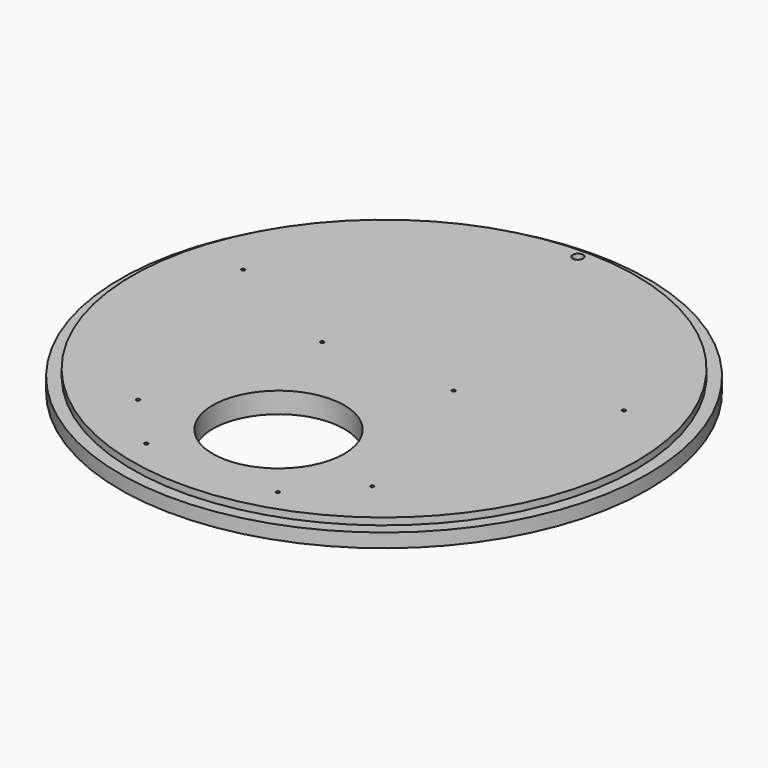
from build123d import *

# Parameters (mm, degrees)
SKETCH058_R     = 152.5
PAD_DEPTH       = 8
SKETCH059_R     = 145.5
PAD017_DEPTH    = 4
SKETCH003_R     = 38
POCKET_DEPTH    = 12.001
SKETCH054_R     = 3
SKETCH054_R_2   = 1
POCKET019_DEPTH = 6


with BuildPart() as part:
    # Sketch058 → Pad (new body)
    with BuildSketch(Plane.XY):
        Circle(SKETCH058_R)
    extrude(amount=PAD_DEPTH)

    # Sketch059 (on DatumPlane) → Pad017 (join)
    with BuildSketch(Plane.XY.offset(8)):
        Circle(SKETCH059_R)
    extrude(amount=PAD017_DEPTH)

    # Sketch003 → Pocket (cut, through all)
    with BuildSketch(Plane.XY):
        with Locations((0, -76.25)):
            Circle(SKETCH003_R)
    extrude(amount=POCKET_DEPTH, mode=Mode.SUBTRACT)

    # Sketch054 → Pocket019 (cut)
    with BuildSketch(Plane.XY.offset(12)):
        with Locations((0, 140)):
            Circle(SKETCH054_R)
        with Locations((109.993235, 35.738968)):
            Circle(SKETCH054_R_2)
        with Locations((67.651258, -93.113968)):
            Circle(SKETCH054_R_2)
        with Locations((-67.651258, -93.113968)):
            Circle(SKETCH054_R_2)
        with Locations((-109.993235, 35.738968)):
            Circle(SKETCH054_R_2)
        with Locations((-38, 2.75)):
            Circle(SKETCH054_R_2)
        with Locations((38, 2.75)):
            Circle(SKETCH054_R_2)
        with Locations((-38, -124.25)):
            Circle(SKETCH054_R_2)
        with Locations((38, -124.25)):
            Circle(SKETCH054_R_2)
    extrude(amount=-POCKET019_DEPTH, mode=Mode.SUBTRACT)


with BuildPart() as part_1:
    # Body placement: moved
    add(part.part.moved(Location((444.217634, -154.760103, 0))))


solid = part_1.part
